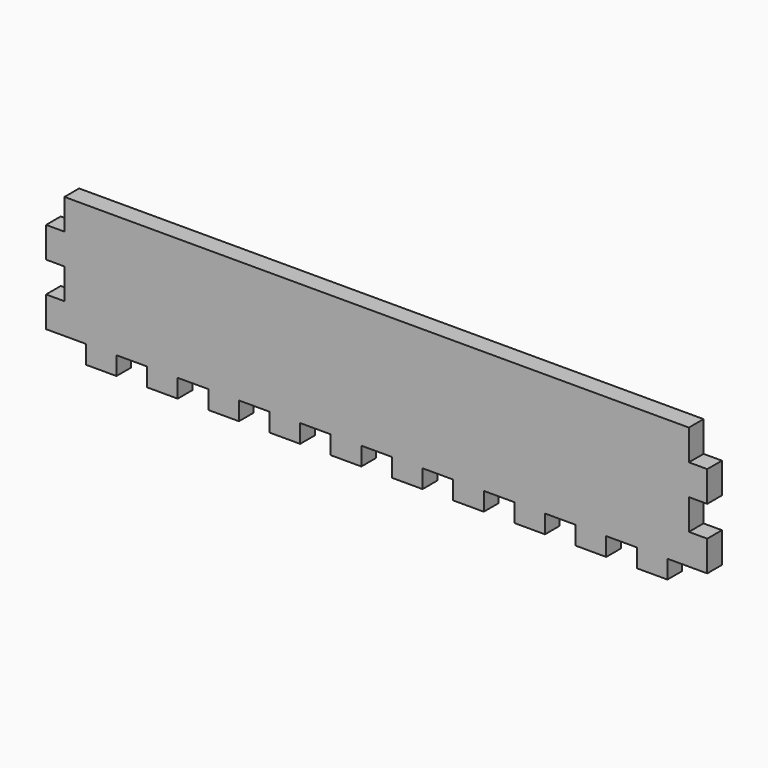
from build123d import *

# Parameters (mm, degrees)
F0_W     = 102
F0_H     = 40
F1_DEPTH = 3
F2_W     = 3
F2_H     = 5
F3_DEPTH = 3
F4_W     = 5
F4_H     = 3
F5_DEPTH = 3
F6_W     = 109.860795
F6_H     = 22.121532
F7_DEPTH = 25


with BuildPart() as f1:
    # F0 (on Front) → F1 (new body)
    with BuildSketch(Plane.XZ):
        Rectangle(F0_W, F0_H)
    extrude(amount=F1_DEPTH)

    # F2 (on face) → F3 (join)
    with BuildSketch(Plane.XZ.offset(3)):
        with Locations((-52.5, -17.5)):
            Rectangle(F2_W, F2_H)
        with Locations((-52.5, -7.5)):
            Rectangle(F2_W, F2_H)
        with Locations((-52.5, 2.5)):
            Rectangle(F2_W, F2_H)
        with Locations((-52.5, 12.5)):
            Rectangle(F2_W, F2_H)
        with Locations((52.5, -7.5)):
            Rectangle(F2_W, F2_H)
        with Locations((52.5, -17.5)):
            Rectangle(F2_W, F2_H)
        with Locations((52.5, 12.5)):
            Rectangle(F2_W, F2_H)
        with Locations((52.5, 2.5)):
            Rectangle(F2_W, F2_H)
    extrude(amount=-F3_DEPTH)

    # F4 (on face) → F5 (join)
    with BuildSketch(Plane.XZ.offset(3)):
        with Locations((5, -21.5)):
            Rectangle(F4_W, F4_H)
        with Locations((15, -21.5)):
            Rectangle(F4_W, F4_H)
        with Locations((25, -21.5)):
            Rectangle(F4_W, F4_H)
        with Locations((35, -21.5)):
            Rectangle(F4_W, F4_H)
        with Locations((45, -21.5)):
            Rectangle(F4_W, F4_H)
        with Locations((-25, -21.5)):
            Rectangle(F4_W, F4_H)
        with Locations((-15, -21.5)):
            Rectangle(F4_W, F4_H)
        with Locations((-5, -21.5)):
            Rectangle(F4_W, F4_H)
        with Locations((-35, -21.5)):
            Rectangle(F4_W, F4_H)
        with Locations((-45, -21.5)):
            Rectangle(F4_W, F4_H)
    extrude(amount=-F5_DEPTH)

    # F6 (on face) → F7 (cut)
    with BuildSketch(Plane.XZ.offset(3)):
        with Locations((0.930397, 11.060766)):
            Rectangle(F6_W, F6_H)
    extrude(amount=-F7_DEPTH, mode=Mode.SUBTRACT)


solid = f1.part
